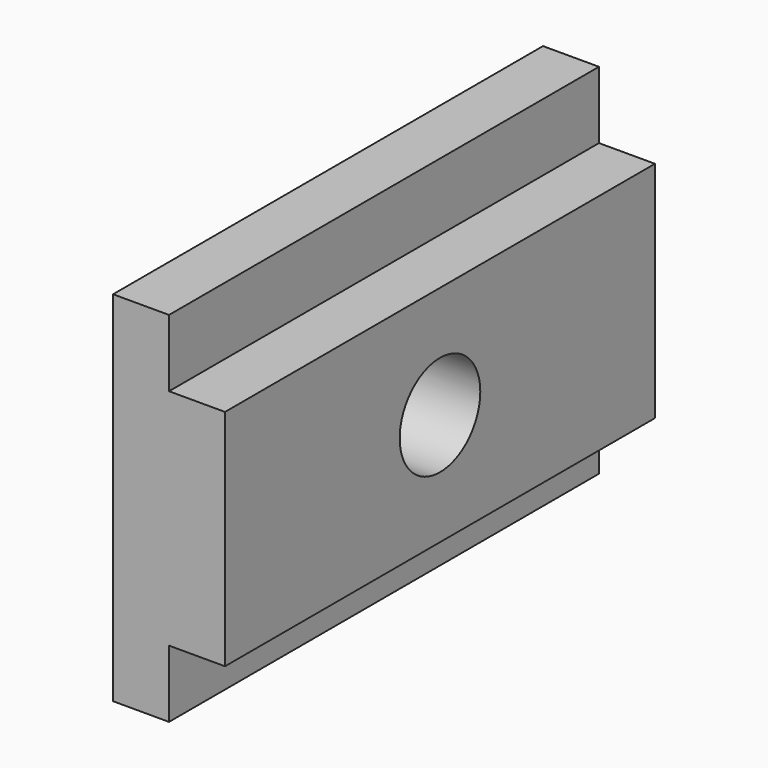
from build123d import *

# Parameters (mm, degrees)
F1_DEPTH = 152.4
F2_R     = 14.2875
F3_DEPTH = 31.75


with BuildPart() as f1:
    # F0 (on Front) → F1 (new body)
    with BuildSketch(Plane.XZ):
        Polygon((0, 101.6), (0, 0), (15.875, 0), (15.875, 19.05), (31.75, 19.05), (31.75, 82.55), (15.875, 82.55), (15.875, 101.6), align=None)
    extrude(amount=-F1_DEPTH)

    # F2 (on face) → F3 (cut)
    with BuildSketch(Plane.YZ.offset(31.75)):
        with Locations((76.2, 50.8)):
            Circle(F2_R)
    extrude(amount=-F3_DEPTH, mode=Mode.SUBTRACT)


solid = f1.part
